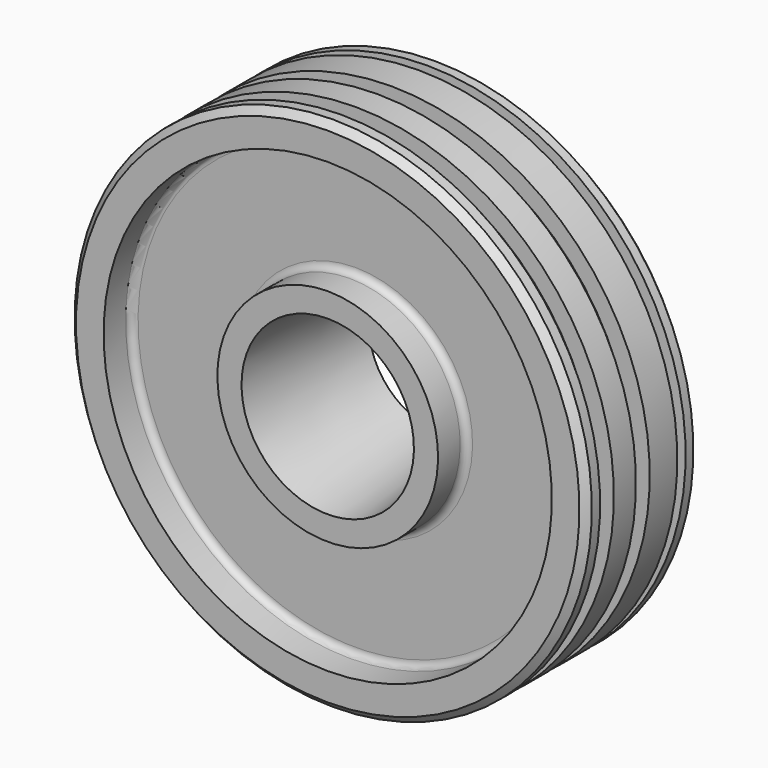
from build123d import *

# Parameters (mm, degrees)
F2_SIZE2 = 2
F2_SIZE  = 2
F3_R     = 2


with BuildPart() as f1:
    # F0 (on Right) → F1 (revolve)
    with BuildSketch(Plane.YZ):
        Polygon((5, 75), (0, 75), (0, 65), (10, 65), (10, 32), (0, 32), (0, 25), (40.8, 20.711747), (40.8, 27), (33.3, 27), (33.3, 65), (40.8, 65), (40.8, 75), (36, 75), (36, 70), (33, 70), (33, 75), (23, 75), (23, 70), (18, 70), (18, 75), (10, 75), (10, 70), (5, 70), align=None)
    revolve(axis=Axis((0, 18.302675, 0), (0, 1, 0)))

    # F2
    f2_edges = [f1.edges().sort_by_distance(p)[0] for p in [
        (0, 40.8, -75),
        (0, 0, -75),
    ]]
    chamfer(f2_edges, length=F2_SIZE, length2=F2_SIZE2)

    # F3
    f3_edges = [f1.edges().sort_by_distance(p)[0] for p in [
        (0, 10, -65),
        (0, 33.3, -65),
        (0, 33.3, -27),
        (0, 10, -32),
    ]]
    fillet(f3_edges, radius=F3_R)


solid = f1.part
